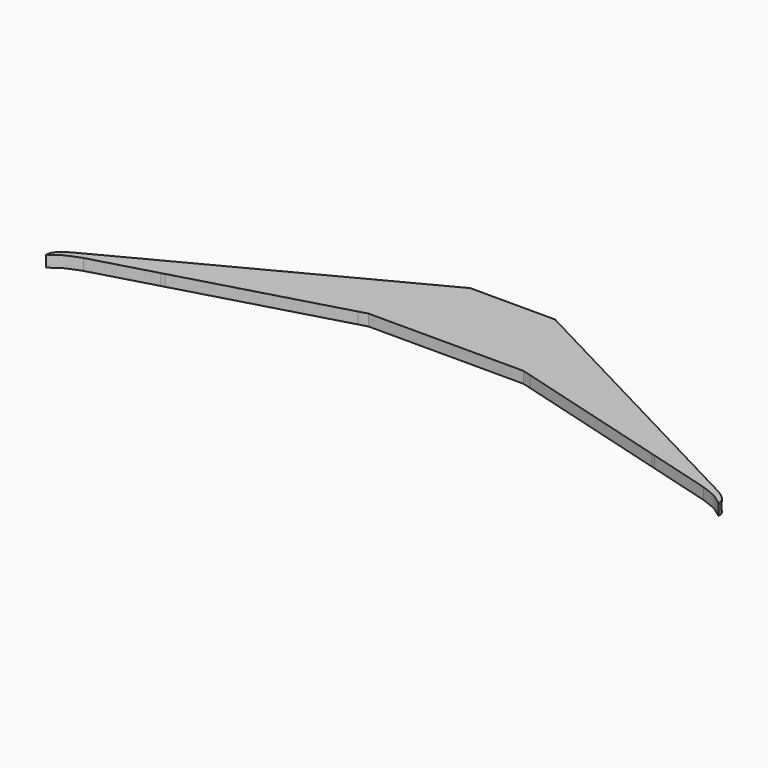
from build123d import *

# Parameters (mm, degrees)
F0_W     = 0.3077685833
F0_H     = 3.0174497515
F0_W_2   = 0.3736615181
F0_H_2   = 3.0005369335
F1_DEPTH = 1.905


with BuildPart() as f1:
    # F0 (on Top) → F1 (new body)
    with BuildSketch(Plane.XY):
        Polygon((-40.7995291973, 5.464467527), (-14.4373480539, 12.9072737016), (-15.2560308821, 15.3607679065), (-41.153776167, 6.7191989505), align=None)
        Polygon((15.2560308821, 15.3607679065), (14.4373480539, 12.9072737016), (40.7995291973, 5.464467527), (41.153776167, 6.7191989505), align=None)
        Polygon((15.817280524, 22.6914284287), (7.1020424366, 27.2613409907), (5.8656073577, 26.2044058573), (14.5569145679, 21.6470416635), align=None)
        Polygon((0, 16.1000750959), (0, 13.3195221424), (12.9771772772, 13.3195221424), (13.0404159427, 16.1000750959), align=None)
        Polygon((41.7347997427, 6.5253227949), (41.3307665692, 5.3144838527), (45.5636017813, 4.1194320517), (46.1687434975, 5.273492236), align=None)
        with BuildLine():
            Line((-1.4681518078, 16.6104473174), (0, 16.6104473174))
            Line((0, 16.6104473174), (0, 27.2613409907))
            Line((0, 27.2613409907), (-7.1020424366, 27.2613409907))
            Line((-7.1020424366, 27.2613409907), (-5.8656073577, 26.2044058573))
            Line((-5.8656073577, 26.2044058573), (-14.5569145679, 21.6470416635))
            Line((-14.5569145679, 21.6470416635), (-15.817280524, 22.6914284287))
            Line((-15.817280524, 22.6914284287), (-18.9903536438, 21.0275993325))
            Line((-18.9903536438, 21.0275993325), (-18.3680206537, 20.5280538648))
            Line((-18.3680206537, 20.5280538648), (-50.848664998, 3.4965392785))
            Line((-50.848664998, 3.4965392785), (-51.4281513074, 4.018551784))
            Line((-51.4281513074, 4.018551784), (-53.987622261, 2.676470438))
            add(Edge.make_bspline(
                [(-56.3118, 0), (-56.2840348354, 0.2947406505), (-56.2211233755, 0.9625762239), (-55.1259171033, 2.0461528441), (-54.3603888426, 2.470055258), (-53.987622261, 2.676470438)],
                knots=[0, 0, 0, 0, 0.2884138278, 0.6534999966, 1, 1, 1, 1], degree=3))
            add(Edge.make_bspline(
                [(-51.9256778061, 2.3232339881), (-52.2473072862, 2.2110366066), (-52.8914210489, 1.9863436539), (-53.853041271, 1.5731023553), (-54.8324301396, 1.1407653729), (-55.861283793, 0.2978967714), (-56.1862803044, 0.0829979288), (-56.3118, 0)],
                knots=[0, 0, 0, 0, 0.2044728535, 0.4094891393, 0.6227124171, 0.8542845203, 1, 1, 1, 1], degree=3))
            Line((-51.9256778061, 2.3232339881), (-45.5636017813, 4.1194320517))
            Line((-45.5636017813, 4.1194320517), (-46.1687434975, 5.273492236))
            Line((-46.1687434975, 5.273492236), (-41.7347997427, 6.5253227949))
            Line((-41.7347997427, 6.5253227949), (-41.153776167, 6.7191989505))
            Line((-41.153776167, 6.7191989505), (-41.3146836968, 7.2139791623))
            Line((-41.3146836968, 7.2139791623), (-13.1545960903, 16.6104473174))
            Line((-13.1545960903, 16.6104473174), (-3.2653510571, 16.6104473174))
            Line((-3.2653510571, 16.6104473174), (-3.2653510571, 19.6109842509))
            Line((-3.2653510571, 19.6109842509), (-2.891689539, 19.6109842509))
            Line((-2.891689539, 19.6109842509), (-2.891689539, 16.6104473174))
            Line((-2.891689539, 16.6104473174), (-1.7759203911, 16.6104473174))
            Line((-1.7759203911, 16.6104473174), (-1.7759203911, 19.6278970689))
            Line((-1.7759203911, 19.6278970689), (-1.4681518078, 19.6278970689))
            Line((-1.4681518078, 19.6278970689), (-1.4681518078, 16.6104473174))
        make_face()
        Polygon((-45.5636017813, 4.1194320517), (-41.3307665692, 5.3144838527), (-41.7347997427, 6.5253227949), (-46.1687434975, 5.273492236), align=None)
        with BuildLine():
            Line((0, 27.2613409907), (0, 16.6104473174))
            Line((0, 16.6104473174), (1.4681518078, 16.6104473174))
            Line((1.4681518078, 16.6104473174), (1.4681518078, 19.6278970689))
            Line((1.4681518078, 19.6278970689), (1.7759203911, 19.6278970689))
            Line((1.7759203911, 19.6278970689), (1.7759203911, 16.6104473174))
            Line((1.7759203911, 16.6104473174), (2.891689539, 16.6104473174))
            Line((2.891689539, 16.6104473174), (2.891689539, 19.6109842509))
            Line((2.891689539, 19.6109842509), (3.2653510571, 19.6109842509))
            Line((3.2653510571, 19.6109842509), (3.2653510571, 16.6104473174))
            Line((3.2653510571, 16.6104473174), (13.1545960903, 16.6104473174))
            Line((13.1545960903, 16.6104473174), (41.3146836968, 7.2139791623))
            Line((41.3146836968, 7.2139791623), (41.153776167, 6.7191989505))
            Line((41.153776167, 6.7191989505), (41.7347997427, 6.5253227949))
            Line((41.7347997427, 6.5253227949), (46.1687434975, 5.273492236))
            Line((46.1687434975, 5.273492236), (45.5636017813, 4.1194320517))
            Line((45.5636017813, 4.1194320517), (51.9256778061, 2.3232339881))
            add(Edge.make_bspline(
                [(51.9256778061, 2.3232339881), (52.2473072862, 2.2110366066), (52.8914210489, 1.9863436539), (53.853041271, 1.5731023553), (54.8324301396, 1.1407653729), (55.861283793, 0.2978967714), (56.1862803044, 0.0829979288), (56.3118, 0)],
                knots=[0, 0, 0, 0, 0.2044728535, 0.4094891393, 0.6227124171, 0.8542845203, 1, 1, 1, 1], degree=3))
            add(Edge.make_bspline(
                [(56.3118, 0), (56.2840348354, 0.2947406505), (56.2211233755, 0.9625762239), (55.1259171033, 2.0461528441), (54.3603888426, 2.470055258), (53.987622261, 2.676470438)],
                knots=[0, 0, 0, 0, 0.2884138278, 0.6534999966, 1, 1, 1, 1], degree=3))
            Line((53.987622261, 2.676470438), (51.4281513074, 4.018551784))
            Line((51.4281513074, 4.018551784), (50.848664998, 3.4965392785))
            Line((50.848664998, 3.4965392785), (18.3680206537, 20.5280538648))
            Line((18.3680206537, 20.5280538648), (18.9903536438, 21.0275993325))
            Line((18.9903536438, 21.0275993325), (15.817280524, 22.6914284287))
            Line((15.817280524, 22.6914284287), (14.5569145679, 21.6470416635))
            Line((14.5569145679, 21.6470416635), (5.8656073577, 26.2044058573))
            Line((5.8656073577, 26.2044058573), (7.1020424366, 27.2613409907))
            Line((7.1020424366, 27.2613409907), (0, 27.2613409907))
        make_face()
        Polygon((-5.8656073577, 26.2044058573), (-7.1020424366, 27.2613409907), (-15.817280524, 22.6914284287), (-14.5569145679, 21.6470416635), align=None)
        Polygon((-12.9771772772, 13.3195221424), (0, 13.3195221424), (0, 16.1000750959), (-13.0404159427, 16.1000750959), align=None)
        Polygon((-18.3680206537, 20.5280538648), (-18.9903536438, 21.0275993325), (-51.4281513074, 4.018551784), (-50.848664998, 3.4965392785), align=None)
        Polygon((-13.0404159427, 16.1000750959), (0, 16.1000750959), (0, 16.6104473174), (-1.4681518078, 16.6104473174), (-1.7759203911, 16.6104473174), (-2.891689539, 16.6104473174), (-3.2653510571, 16.6104473174), (-13.1545960903, 16.6104473174), (-41.3146836968, 7.2139791623), (-41.153776167, 6.7191989505), (-15.2560308821, 15.3607679065), align=None)
        Polygon((51.4281513074, 4.018551784), (18.9903536438, 21.0275993325), (18.3680206537, 20.5280538648), (50.848664998, 3.4965392785), align=None)
        Polygon((0, 16.6104473174), (0, 16.1000750959), (13.0404159427, 16.1000750959), (15.2560308821, 15.3607679065), (41.153776167, 6.7191989505), (41.3146836968, 7.2139791623), (13.1545960903, 16.6104473174), (3.2653510571, 16.6104473174), (2.891689539, 16.6104473174), (1.7759203911, 16.6104473174), (1.4681518078, 16.6104473174), align=None)
        Polygon((-14.4373480539, 12.9072737016), (-12.9771772772, 13.3195221424), (-13.0404159427, 16.1000750959), (-15.2560308821, 15.3607679065), align=None)
        Polygon((13.0404159427, 16.1000750959), (12.9771772772, 13.3195221424), (14.4373480539, 12.9072737016), (15.2560308821, 15.3607679065), align=None)
        with Locations((-1.6220360994, 18.1191721931)):
            Rectangle(F0_W, F0_H)
        with Locations((1.6220360994, 18.1191721931)):
            Rectangle(F0_W, F0_H)
        with Locations((3.078520298, 18.1107157841)):
            Rectangle(F0_W_2, F0_H_2)
        with Locations((-3.078520298, 18.1107157841)):
            Rectangle(F0_W_2, F0_H_2)
        Polygon((41.153776167, 6.7191989505), (40.7995291973, 5.464467527), (41.3307665692, 5.3144838527), (41.7347997427, 6.5253227949), align=None)
        Polygon((-41.3307665692, 5.3144838527), (-40.7995291973, 5.464467527), (-41.153776167, 6.7191989505), (-41.7347997427, 6.5253227949), align=None)
    extrude(amount=F1_DEPTH)


solid = f1.part
